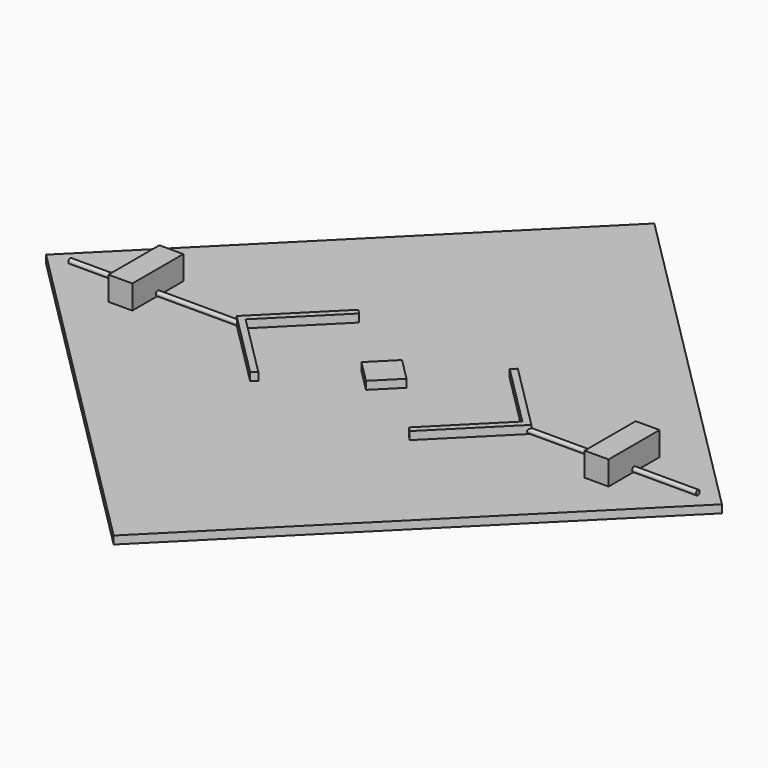
from build123d import *

# Parameters (mm, degrees)
F4_DEPTH       = 25
F5_W           = 75
F5_H           = 200
F6_DEPTH       = 75
F8_DEPTH       = 25
F9_R           = 7.5
F10_DEPTH      = 200
F10_DEPTH_BACK = 350
F11_DEPTH      = 25


with BuildPart() as f4:
    # F2 (on Top) → F4 (new body)
    with BuildSketch(Plane.XY):
        Polygon((0, 1060.660172), (-1060.660172, 0), (0, -1060.660172), (1060.660172, 0), align=None)
    extrude(amount=-F4_DEPTH)


with BuildPart() as f6:
    # F5 (on face) → F6 (new body)
    with BuildSketch(Plane.XY):
        with Locations((747.46212, 0)):
            Rectangle(F5_W, F5_H)
    extrude(amount=F6_DEPTH)


with BuildPart() as f8:
    # F7 (on face) → F8 (new body)
    with BuildSketch(Plane.XY):
        Polygon((236.27417, -197.989899), (250.416306, -212.132034), (462.54834, 0), (250.416306, 212.132034), (236.27417, 197.989899), (434.264069, 0), align=None)
    extrude(amount=F8_DEPTH)


with BuildPart() as f10:
    # F9 (on face) → F10 (new body, two sides)
    with BuildSketch(Plane.YZ.offset(784.96212)) as f10_sk:
        with Locations((0, 7.5)):
            Circle(F9_R)
    extrude(amount=F10_DEPTH)
    extrude(f10_sk.sketch, amount=-F10_DEPTH_BACK)


with BuildPart() as f11:
    # F1 (on Top) → F11 (new body)
    with BuildSketch(Plane.XY):
        Polygon((0, 70.710678), (-70.710678, 0), (0, -70.710678), (70.710678, 0), align=None)
    extrude(amount=F11_DEPTH)


with BuildPart() as f12_1:
    # F12: instance of F8
    add(f8.part.mirror(Plane.YZ))


with BuildPart() as f12_2:
    # F12: instance of F10
    add(f10.part.mirror(Plane.YZ))


with BuildPart() as f12_3:
    # F12: instance of F6
    add(f6.part.mirror(Plane.YZ))


solid = Compound([f4.part, f6.part, f8.part, f10.part, f11.part, f12_1.part, f12_2.part, f12_3.part])
